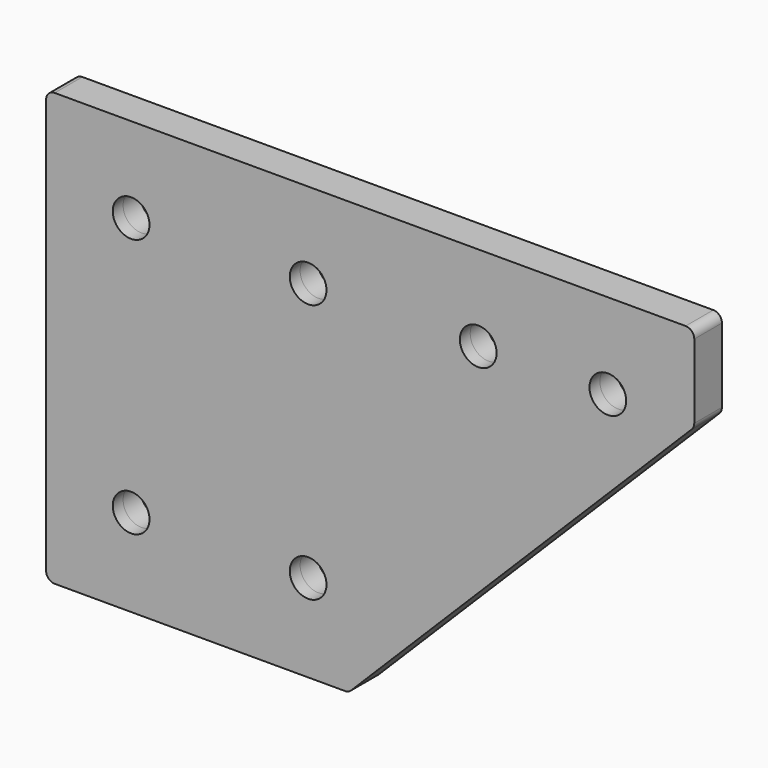
from build123d import *

# Parameters (mm, degrees)
F1_DEPTH      = 1.5
F2_W          = 71
F2_H          = 5.37
F3_DEPTH      = 1
F5_DEPTH      = 1.5
F6_R          = 2.125
F7_DEPTH      = 25
F7_DEPTH_BACK = 25
F8_W          = 6.5
F8_H          = 18
F9_DEPTH      = 3.5
F10_R         = 1


with BuildPart() as f1:
    # F0 (on Front) → F1 (new body)
    with BuildSketch(Plane.XZ):
        Polygon((0, 50), (0, 0), (35, 0), (75, 40), (75, 50), align=None)
    extrude(amount=F1_DEPTH)

    # F2 (on face) → F3 (join)
    with BuildSketch(Plane(origin=(0, 0, 0), x_dir=(-1, 0, 0), z_dir=(0, 1, 0))):
        Polygon((0, 0), (0, 50), (-75, 50), (-75, 40), (-35, 0), align=None)
        Polygon((-2, 7.63), (-2, 2), (-34.1715728753, 2), (-39.8015728753, 7.63), align=None, mode=Mode.SUBTRACT)
        Polygon((-44.8015728753, 12.63), (-66.4248850161, 34.2533121408), (-7.7811020593, 12.63), align=None, mode=Mode.SUBTRACT)
        Polygon((-2, 14.7616253496), (-64.020470816, 37.63), (-2, 37.63), align=None, mode=Mode.SUBTRACT)
        with Locations((-37.5, 45.315)):
            Rectangle(F2_W, F2_H, mode=Mode.SUBTRACT)
    extrude(amount=F3_DEPTH)

    # F4 (on face) → F5 (join)
    with BuildSketch(Plane(origin=(0, 1, 0), x_dir=(-1, 0, 0), z_dir=(0, 1, 0))):
        Polygon((0, 0), (0, 50), (-75, 50), (-75, 40), (-35, 0), align=None)
    extrude(amount=F5_DEPTH)

    # F6 (on face) → F7 (cut, two sides)
    with BuildSketch(Plane(origin=(0, 0, 0), x_dir=(-1, 0, 0), z_dir=(0, 1, 0))) as f7_sk:
        with Locations((-9.84, 40.13)):
            Circle(F6_R)
        with Locations((-9.84, 10.13)):
            Circle(F6_R)
        with Locations((-30.32, 40.13)):
            Circle(F6_R)
        with Locations((-30.32, 10.13)):
            Circle(F6_R)
        with Locations((-50, 40.13)):
            Circle(F6_R)
        with Locations((-65, 40.13)):
            Circle(F6_R)
    extrude(amount=-F7_DEPTH, mode=Mode.SUBTRACT)
    extrude(f7_sk.sketch, amount=F7_DEPTH_BACK, mode=Mode.SUBTRACT)

    # F8 (on face) → F9 (join)
    with BuildSketch(Plane(origin=(0, 2.5, 0), x_dir=(-1, 0, 0), z_dir=(0, 1, 0))):
        with Locations((-9.84, 25.13)):
            Rectangle(F8_W, F8_H)
        with Locations((-30.32, 25.13)):
            Rectangle(F8_W, F8_H)
    extrude(amount=F9_DEPTH)

    # F10
    f10_edges = [f1.edges().sort_by_distance(p)[0] for p in [
        (33.57, 6, 25.13),
        (27.07, 6, 25.13),
        (13.09, 6, 25.13),
        (6.59, 6, 25.13),
        (0, 0.5, 50),
        (0, 0.5, 0),
        (75, 0.5, 50),
        (75, 0.5, 40),
        (35, 0.5, 0),
    ]]
    fillet(f10_edges, radius=F10_R)


solid = f1.part
